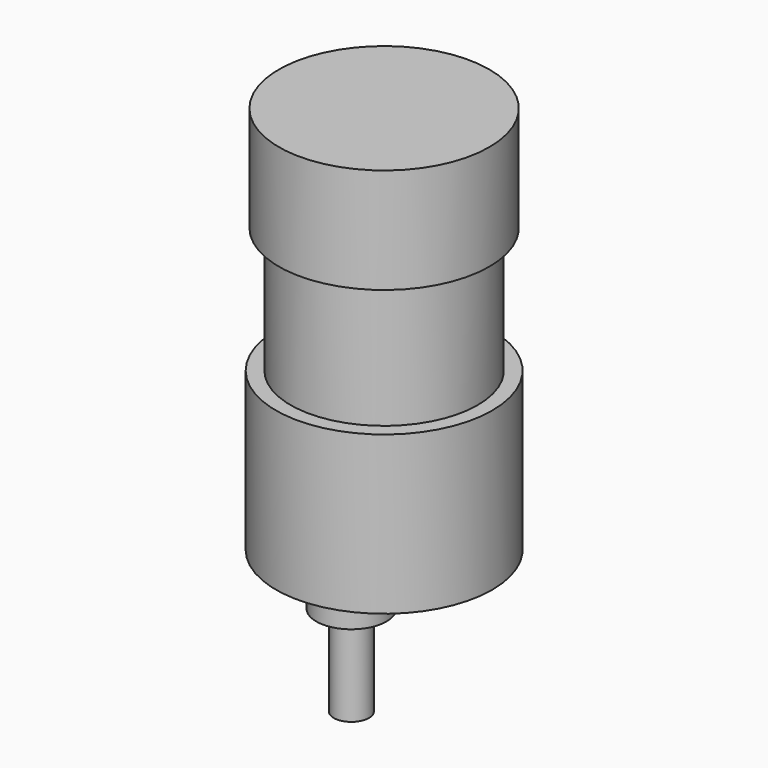
from build123d import *

# Parameters (mm, degrees)
F0_R           = 3.01
F1_DEPTH       = 21.5
F0_R_2         = 6
F2_DEPTH       = 6
F0_R_3         = 18.5
F0_R_4         = 1.25
F3_DEPTH       = 27
F4_DEPTH       = 3.5
F7_DEPTH       = 12
F8_R           = 16
F9_DEPTH       = 24.5
F10_R          = 16
F11_DEPTH      = 2
F12_R          = 18
F13_DEPTH      = 13
F13_DEPTH_BACK = 5


with BuildPart() as f1:
    # F0 (on Top) → F1 (new body)
    with BuildSketch(Plane.XY):
        with Locations((-57.0362173021, -34.5219187438)):
            Circle(F0_R)
    extrude(amount=-F1_DEPTH)

    # F6 (on face) → F7 (cut)
    with BuildSketch(Plane(origin=(0, 0, -21.5), x_dir=(1, 0, 0), z_dir=(0, 0, -1))):
        with BuildLine():
            Line((-55.3450638496, 32.0319187438), (-58.7273707546, 32.0319187438))
            ThreePointArc((-58.7273707546, 32.0319187438), (-57.0362173021, 31.5119187438), (-55.3450638496, 32.0319187438))
        make_face()
    extrude(amount=-F7_DEPTH, mode=Mode.SUBTRACT)


with BuildPart() as f2:
    # F0 (on Top) → F2 (new body)
    with BuildSketch(Plane.XY):
        with Locations((-57.0362173021, -34.5219187438)):
            Circle(F0_R_2)
        with Locations((-57.0362173021, -34.5219187438)):
            Circle(F0_R, mode=Mode.SUBTRACT)
    extrude(amount=-F2_DEPTH)


with BuildPart() as f3:
    # F0 (on Top) → F3 (new body)
    with BuildSketch(Plane.XY):
        with Locations((-57.0362173021, -27.5219187438)):
            Circle(F0_R_3)
        with Locations((-64.7862173021, -40.9453125025)):
            Circle(F0_R_4, mode=Mode.SUBTRACT)
        with Locations((-49.2862173021, -40.9453125025)):
            Circle(F0_R_4, mode=Mode.SUBTRACT)
        with Locations((-57.0362173021, -34.5219187438)):
            Circle(F0_R_2, mode=Mode.SUBTRACT)
        with Locations((-72.5362173021, -27.5219187438)):
            Circle(F0_R_4, mode=Mode.SUBTRACT)
        with Locations((-64.7862173021, -14.0985249852)):
            Circle(F0_R_4, mode=Mode.SUBTRACT)
        with Locations((-41.5362173021, -27.5219187438)):
            Circle(F0_R_4, mode=Mode.SUBTRACT)
        with Locations((-49.2862173021, -14.0985249852)):
            Circle(F0_R_4, mode=Mode.SUBTRACT)
        with Locations((-57.0362173021, -34.5219187438)):
            Circle(F0_R_2)
        with Locations((-57.0362173021, -34.5219187438)):
            Circle(F0_R, mode=Mode.SUBTRACT)
        with Locations((-57.0362173021, -34.5219187438)):
            Circle(F0_R)
        with Locations((-64.7862173021, -40.9453125025)):
            Circle(F0_R_4)
        with Locations((-49.2862173021, -40.9453125025)):
            Circle(F0_R_4)
        with Locations((-41.5362173021, -27.5219187438)):
            Circle(F0_R_4)
        with Locations((-49.2862173021, -14.0985249852)):
            Circle(F0_R_4)
        with Locations((-64.7862173021, -14.0985249852)):
            Circle(F0_R_4)
        with Locations((-72.5362173021, -27.5219187438)):
            Circle(F0_R_4)
    extrude(amount=F3_DEPTH)


with BuildPart() as f4:
    # F0 (on Top) → F4 (new body)
    with BuildSketch(Plane.XY):
        with Locations((-64.7862173021, -40.9453125025)):
            Circle(F0_R_4)
    extrude(amount=F4_DEPTH)


with BuildPart() as f4b:
    # F0 (on Top) → F4, piece 2 (new body)
    with BuildSketch(Plane.XY):
        with Locations((-49.2862173021, -40.9453125025)):
            Circle(F0_R_4)
    extrude(amount=F4_DEPTH)


with BuildPart() as f4c:
    # F0 (on Top) → F4, piece 3 (new body)
    with BuildSketch(Plane.XY):
        with Locations((-41.5362173021, -27.5219187438)):
            Circle(F0_R_4)
    extrude(amount=F4_DEPTH)


with BuildPart() as f4d:
    # F0 (on Top) → F4, piece 4 (new body)
    with BuildSketch(Plane.XY):
        with Locations((-49.2862173021, -14.0985249852)):
            Circle(F0_R_4)
    extrude(amount=F4_DEPTH)


with BuildPart() as f4e:
    # F0 (on Top) → F4, piece 5 (new body)
    with BuildSketch(Plane.XY):
        with Locations((-64.7862173021, -14.0985249852)):
            Circle(F0_R_4)
    extrude(amount=F4_DEPTH)


with BuildPart() as f4f:
    # F0 (on Top) → F4, piece 6 (new body)
    with BuildSketch(Plane.XY):
        with Locations((-72.5362173021, -27.5219187438)):
            Circle(F0_R_4)
    extrude(amount=F4_DEPTH)


with BuildPart() as f3_1:
    add(f3.part)

    # F5: cut F4b, F4f, F4, F4e, F4d, F4c
    add(f4b.part, mode=Mode.SUBTRACT)
    add(f4f.part, mode=Mode.SUBTRACT)
    add(f4.part, mode=Mode.SUBTRACT)
    add(f4e.part, mode=Mode.SUBTRACT)
    add(f4d.part, mode=Mode.SUBTRACT)
    add(f4c.part, mode=Mode.SUBTRACT)

    # F8 (on face) → F9 (join)
    with BuildSketch(Plane.XY.offset(27)):
        with Locations((-57.0362173021, -27.5219187438)):
            Circle(F8_R)
    extrude(amount=F9_DEPTH)


with BuildPart() as f11:
    # F10 (on face) → F11 (new body)
    with BuildSketch(Plane.XY.offset(51.5)):
        with Locations((-57.0362173021, -27.5219187438)):
            Circle(F10_R)
    extrude(amount=F11_DEPTH)


with BuildPart() as f13:
    # F12 (on face) → F13 (new body, two sides)
    with BuildSketch(Plane.XY.offset(53.5)) as f13_sk:
        with Locations((-57.0362173021, -27.5219187438)):
            Circle(F12_R)
    extrude(amount=F13_DEPTH)
    extrude(f13_sk.sketch, amount=-F13_DEPTH_BACK)


solid = Compound([f1.part, f2.part, f3_1.part, f11.part, f13.part])
